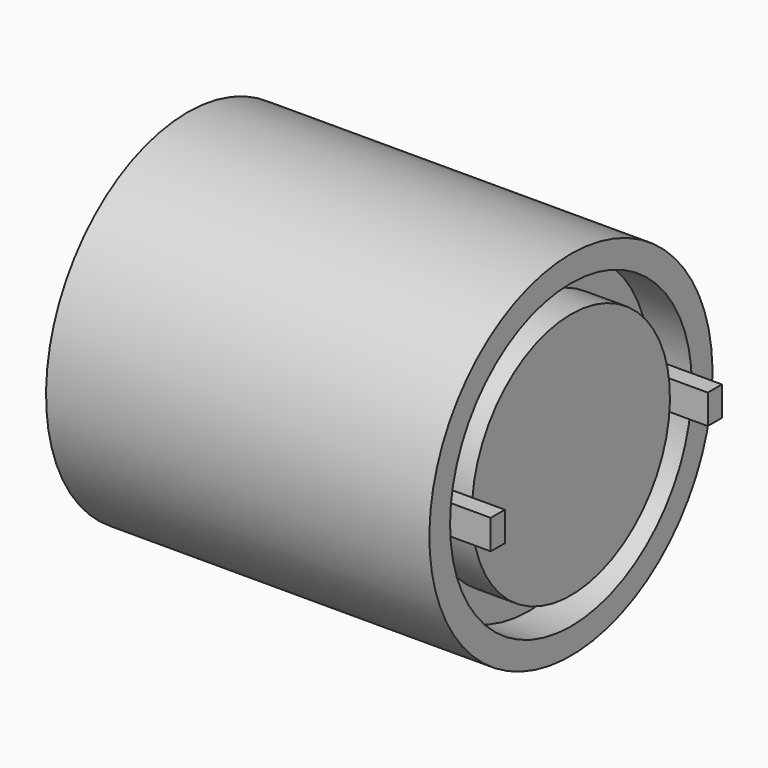
from build123d import *

# Parameters (mm, degrees)
F2_W     = 6
F2_H     = 10
F3_DEPTH = 12


with BuildPart() as f1:
    # F0 (on Front) → F1 (revolve)
    with BuildSketch(Plane.XZ):
        Polygon((-150, 0), (0, 0), (0, 41.971926), (-14.165769, 41.971926), (-14.165769, 51.236629), (0, 51.236629), (0, 60), (-130, 60), (-130, 15), (-150, 15), align=None)
    revolve(axis=Axis((-75, 0, 0), (-1, 0, 0)))


with BuildPart() as f3:
    # F2 (on Right) → F3 (new body, symmetric)
    with BuildSketch(Plane.YZ):
        with Locations((-46, 0)):
            Rectangle(F2_W, F2_H)
        with Locations((46, 0)):
            Rectangle(F2_W, F2_H)
    extrude(amount=F3_DEPTH, both=True)


solid = Compound([f1.part, f3.part])
